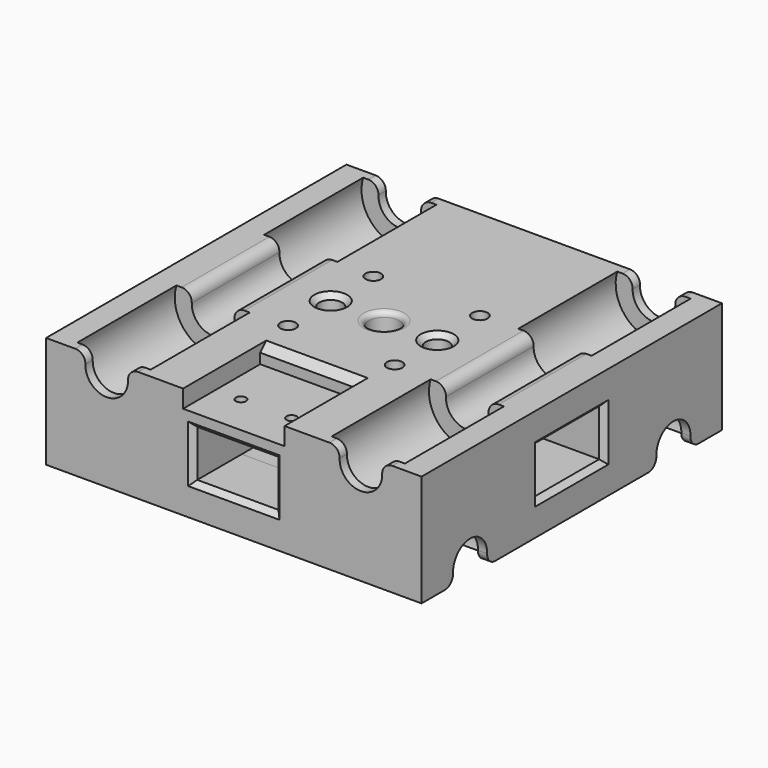
from build123d import *

# Parameters (mm, degrees)
SKETCH018_R          = 5
SKETCH018_R_2        = 1.525
PAD005_DEPTH         = 6.4
SKETCH019_R          = 5
SKETCH019_R_2        = 1.525
SKETCH019_R_3        = 2.25
PAD006_DEPTH         = 6.4
CHAMFER004_SIZE      = 1
SKETCH020_R          = 5
SKETCH020_R_2        = 3
PAD007_DEPTH         = 22
FILLET005_R          = 1
SKETCH015_W          = 74
SKETCH015_H          = 74
PAD004_DEPTH         = 22
SKETCH016_W          = 16
SKETCH016_H          = 9.2
POCKET010_DEPTH      = 37.001
POCKET010_DEPTH_BACK = -37.001
SKETCH017_W          = 16
SKETCH017_H          = 9.2
POCKET011_DEPTH      = 37.001
POCKET011_DEPTH_BACK = -37.001
FILLET004_R          = 2
CHAMFER003_SIZE      = 1
SKETCH021_W          = 20
SKETCH021_H          = 19
POCKET012_DEPTH      = 3.5
SKETCH022_W          = 19
SKETCH022_H          = 20
POCKET013_DEPTH      = 3.5
SKETCH023_R          = 1
POCKET014_DEPTH      = 2.9
SKETCH024_R          = 1
POCKET015_DEPTH      = 2.9
FILLET006_R          = 2
CHAMFER_SIZE         = 1.5


with BuildPart() as body006:
    # Sketch026 → Revolution001 (revolve)
    with BuildSketch(Plane.YZ):
        Polygon((-37, 4.2), (-37, 0), (37, 0), (37, 4.2), (35.2, 4.2), (35.2, 7.55), (10.8, 7.55), (10.8, 4.2), (-10.8, 4.2), (-10.8, 7.55), (-35.2, 7.55), (-35.2, 4.2), align=None)
    revolve(axis=Axis((0, 0, 0), (0, 1, 0)))


with BuildPart() as body006_1:
    # Body006 placement: moved
    add(body006.part.moved(Location((-25.05, 0, 19.8))))


with BuildPart() as body007:
    # Sketch027 → Revolution002 (revolve)
    with BuildSketch(Plane.XZ):
        Polygon((-37, 4.2), (-37, 0), (37, 0), (37, 4.2), (35.2, 4.2), (35.2, 7.55), (10.8, 7.55), (10.8, 4.2), (-10.8, 4.2), (-10.8, 7.55), (-35.2, 7.55), (-35.2, 4.2), align=None)
    revolve(axis=Axis((0, 0, 0), (1, 0, 0)))


with BuildPart() as body007_1:
    # Body007 placement: moved
    add(body007.part.moved(Location((0, 25.05, 2.2))))


with BuildPart() as body008:
    # Sketch028 → Revolution003 (revolve)
    with BuildSketch(Plane.XZ):
        Polygon((-37, 4.2), (-37, 0), (37, 0), (37, 4.2), (35.2, 4.2), (35.2, 7.55), (10.8, 7.55), (10.8, 4.2), (-10.8, 4.2), (-10.8, 7.55), (-35.2, 7.55), (-35.2, 4.2), align=None)
    revolve(axis=Axis((0, 0, 0), (1, 0, 0)))


with BuildPart() as body008_1:
    # Body008 placement: moved
    add(body008.part.moved(Location((0, -25.05, 2.2))))


with BuildPart() as bearingholes:
    # Sketch025 → Revolution (revolve)
    with BuildSketch(Plane.YZ):
        Polygon((-37, 4.2), (-37, 0), (37, 0), (37, 4.2), (35.2, 4.2), (35.2, 7.55), (10.8, 7.55), (10.8, 4.2), (-10.8, 4.2), (-10.8, 7.55), (-35.2, 7.55), (-35.2, 4.2), align=None)
    revolve(axis=Axis((0, 0, 0), (0, 1, 0)))


with BuildPart() as bearingholes_1:
    # Body005 placement: moved
    add(bearingholes.part.moved(Location((25.05, 0, 19.8))))

    # Fusion001: union Body006, Body007, Body008
    add(body006_1.part)
    add(body007_1.part)
    add(body008_1.part)


with BuildPart() as innercorebottom:
    # Sketch018 → Pad005 (new body)
    with BuildSketch(Plane.XY):
        with BuildLine():
            Line((-16, 18), (16, 18))
            ThreePointArc((18, 16), (17.414214, 17.414214), (16, 18))
            Line((18, 16), (18, -16))
            ThreePointArc((16, -18), (17.414214, -17.414214), (18, -16))
            Line((16, -18), (-16, -18))
            ThreePointArc((-18, -16), (-17.414214, -17.414214), (-16, -18))
            Line((-18, -16), (-18, 16))
            ThreePointArc((-16, 18), (-17.414214, 17.414214), (-18, 16))
        make_face()
        Circle(SKETCH018_R, mode=Mode.SUBTRACT)
        with Locations((-10.5, 10.5)):
            Circle(SKETCH018_R_2, mode=Mode.SUBTRACT)
        with Locations((10.5, 10.5)):
            Circle(SKETCH018_R_2, mode=Mode.SUBTRACT)
        with Locations((10.5, -10.5)):
            Circle(SKETCH018_R_2, mode=Mode.SUBTRACT)
        with Locations((-10.5, -10.5)):
            Circle(SKETCH018_R_2, mode=Mode.SUBTRACT)
    extrude(amount=PAD005_DEPTH)


with BuildPart() as innercoretop:
    # Sketch019 → Pad006 (new body)
    with BuildSketch(Plane.XY):
        with BuildLine():
            Line((-16, 18), (16, 18))
            ThreePointArc((18, 16), (17.414214, 17.414214), (16, 18))
            Line((18, 16), (18, -16))
            ThreePointArc((16, -18), (17.414214, -17.414214), (18, -16))
            Line((16, -18), (-16, -18))
            ThreePointArc((-18, -16), (-17.414214, -17.414214), (-16, -18))
            Line((-18, -16), (-18, 16))
            ThreePointArc((-16, 18), (-17.414214, 17.414214), (-18, 16))
        make_face()
        Circle(SKETCH019_R, mode=Mode.SUBTRACT)
        with Locations((-10.5, 10.5)):
            Circle(SKETCH019_R_2, mode=Mode.SUBTRACT)
        with Locations((10.5, 10.5)):
            Circle(SKETCH019_R_2, mode=Mode.SUBTRACT)
        with Locations((10.5, -10.5)):
            Circle(SKETCH019_R_2, mode=Mode.SUBTRACT)
        with Locations((-10.5, -10.5)):
            Circle(SKETCH019_R_2, mode=Mode.SUBTRACT)
        with Locations((-10.5, 0)):
            Circle(SKETCH019_R_3, mode=Mode.SUBTRACT)
        with Locations((10.5, 0)):
            Circle(SKETCH019_R_3, mode=Mode.SUBTRACT)
    extrude(amount=-PAD006_DEPTH)

    # Chamfer004
    chamfer004_edges = [innercoretop.edges().sort_by_distance(p)[0] for p in [
        (-12.75, 0, 0),
        (8.25, 0, 0),
    ]]
    chamfer(chamfer004_edges, length=CHAMFER004_SIZE)


with BuildPart() as innercoretop_1:
    # Body003 placement: moved
    add(innercoretop.part.moved(Location((0, 0, 22))))


with BuildPart() as centerhole:
    # Sketch020 → Pad007 (new body)
    with BuildSketch(Plane.XY):
        Circle(SKETCH020_R)
        Circle(SKETCH020_R_2, mode=Mode.SUBTRACT)
    extrude(amount=PAD007_DEPTH)

    # Fillet005
    fillet005_edges = [centerhole.edges().sort_by_distance(p)[0] for p in [
        (-3, 0, 22),
        (-3, 0, 0),
    ]]
    fillet(fillet005_edges, radius=FILLET005_R)


with BuildPart() as chamfer_body:
    # Sketch015 → Pad004 (new body)
    with BuildSketch(Plane.XY):
        Rectangle(SKETCH015_W, SKETCH015_H)
        with BuildLine():
            Line((-16, 18), (16, 18))
            ThreePointArc((18, 16), (17.414214, 17.414214), (16, 18))
            Line((18, 16), (18, -16))
            ThreePointArc((16, -18), (17.414214, -17.414214), (18, -16))
            Line((16, -18), (-16, -18))
            ThreePointArc((-18, -16), (-17.414214, -17.414214), (-16, -18))
            Line((-18, -16), (-18, 16))
            ThreePointArc((-16, 18), (-17.414214, 17.414214), (-18, 16))
        make_face(mode=Mode.SUBTRACT)
    extrude(amount=PAD004_DEPTH)

    # Sketch016 → Pocket010 (cut, two sides)
    with BuildSketch(Plane.YZ) as pocket010_sk:
        with Locations((0, 11)):
            Rectangle(SKETCH016_W, SKETCH016_H)
    extrude(amount=-POCKET010_DEPTH, mode=Mode.SUBTRACT)
    extrude(pocket010_sk.sketch, amount=-POCKET010_DEPTH_BACK, mode=Mode.SUBTRACT)

    # Sketch017 → Pocket011 (cut, two sides)
    with BuildSketch(Plane.XZ) as pocket011_sk:
        with Locations((0, 11)):
            Rectangle(SKETCH017_W, SKETCH017_H)
    extrude(amount=-POCKET011_DEPTH, mode=Mode.SUBTRACT)
    extrude(pocket011_sk.sketch, amount=-POCKET011_DEPTH_BACK, mode=Mode.SUBTRACT)

    # Fillet004
    fillet004_edges = [chamfer_body.edges().sort_by_distance(p)[0] for p in [
        (-18, -8, 11),
        (-18, 8, 11),
        (-8, -18, 11),
        (8, -18, 11),
        (-8, 18, 11),
        (8, 18, 11),
        (18, 8, 11),
        (18, -8, 11),
    ]]
    fillet(fillet004_edges, radius=FILLET004_R)

    # Chamfer003
    chamfer003_edges = [chamfer_body.edges().sort_by_distance(p)[0] for p in [
        (0, 37, 15.6),
        (8, 37, 11),
        (0, 37, 6.4),
        (-8, 37, 11),
        (-37, 8, 11),
        (-37, 0, 15.6),
        (-37, -8, 11),
        (-37, 0, 6.4),
        (-8, -37, 11),
        (0, -37, 15.6),
        (0, -37, 6.4),
        (8, -37, 11),
        (37, 8, 11),
        (37, 0, 15.6),
        (37, 0, 6.4),
        (37, -8, 11),
    ]]
    chamfer(chamfer003_edges, length=CHAMFER003_SIZE)

    # Sketch021 (on Face15 of Chamfer003) → Pocket012 (cut)
    with BuildSketch(Plane.XY.offset(22)):
        with Locations((0, -27.5)):
            Rectangle(SKETCH021_W, SKETCH021_H)
    extrude(amount=-POCKET012_DEPTH, mode=Mode.SUBTRACT)

    # Sketch022 (on Face14 of Pocket012) → Pocket013 (cut)
    with BuildSketch(Plane(origin=(0, 0, 0), x_dir=(1, 0, 0), z_dir=(0, 0, -1))):
        with Locations((-27.5, 0)):
            Rectangle(SKETCH022_W, SKETCH022_H)
    extrude(amount=-POCKET013_DEPTH, mode=Mode.SUBTRACT)

    # Sketch023 (on Face46 of Pocket013) → Pocket014 (cut)
    with BuildSketch(Plane.XY.offset(18.5)):
        with Locations((-5, -29)):
            Circle(SKETCH023_R)
        with Locations((5, -29)):
            Circle(SKETCH023_R)
    extrude(amount=-POCKET014_DEPTH, mode=Mode.SUBTRACT)

    # Sketch024 (on Face29 of Pocket014) → Pocket015 (cut)
    with BuildSketch(Plane(origin=(0, 0, 3.5), x_dir=(1, 0, 0), z_dir=(0, 0, -1))):
        with Locations((-29, 5)):
            Circle(SKETCH024_R)
        with Locations((-29, -5)):
            Circle(SKETCH024_R)
    extrude(amount=-POCKET015_DEPTH, mode=Mode.SUBTRACT)

    # Fusion: union InnerCoreBottom, InnerCoreTop, CenterHole
    add(innercorebottom.part)
    add(innercoretop_1.part)
    add(centerhole.part)

    # Cut: cut BearingHoles
    add(bearingholes_1.part, mode=Mode.SUBTRACT)

    # Fillet006
    fillet006_edges = [chamfer_body.edges().sort_by_distance(p)[0] for p in [
        (-36.1, 28.627709, 0),
        (0, 28.627709, 0),
        (36.1, 28.627709, 0),
        (28.627709, 36.1, 22),
        (28.627709, 0, 22),
        (28.627709, -36.1, 22),
        (21.472291, 36.1, 22),
        (-21.472291, 36.1, 22),
        (-28.627709, 36.1, 22),
        (-28.627709, -36.1, 22),
        (-28.627709, 0, 22),
        (36.1, 21.472291, 0),
        (36.1, -21.472291, 0),
        (36.1, -28.627709, 0),
        (0, -28.627709, 0),
        (-36.1, -28.627709, 0),
        (21.472291, 0, 22),
        (21.472291, -36.1, 22),
        (-21.472291, -36.1, 22),
        (-21.472291, 0, 22),
        (-36.1, -21.472291, 0),
        (-36.1, 21.472291, 0),
        (0, -21.472291, 0),
        (0, 21.472291, 0),
    ]]
    fillet(fillet006_edges, radius=FILLET006_R)

    # Chamfer
    chamfer_edges = [chamfer_body.edges().sort_by_distance(p)[0] for p in [
        (0, -18, 22),
        (-18, 0, 0),
    ]]
    chamfer(chamfer_edges, length=CHAMFER_SIZE)


solid = chamfer_body.part
